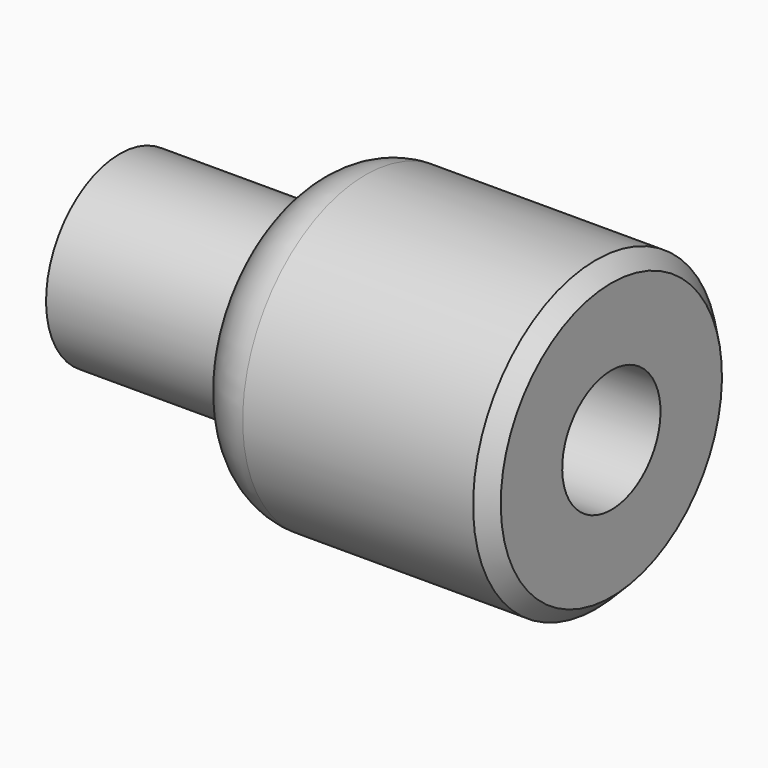
from build123d import *

# Parameters (mm, degrees)
F2_SIZE = 0.5


with BuildPart() as f1:
    # F0 (on Front) → F1 (revolve)
    with BuildSketch(Plane.XZ):
        with BuildLine():
            Line((10, 5), (2, 5))
            ThreePointArc((2, 5), (0.585786, 4.414214), (0, 3))
            Line((0, 3), (-6, 3))
            Line((-6, 3), (-6, 0))
            Line((-6, 0), (0, 0))
            Line((0, 0), (2, 0))
            ThreePointArc((2, 0), (2.87868, 2.12132), (5, 3))
            Line((5, 3), (5, 2))
            Line((5, 2), (10, 2))
            Line((10, 2), (10, 5))
        make_face()
    revolve(axis=Axis((6.397376, 0, 0), (1, 0, 0)))

    # F2
    f2_edges = [f1.edges().sort_by_distance(p)[0] for p in [
        (10, 0, -5),
    ]]
    chamfer(f2_edges, length=F2_SIZE)


solid = f1.part
